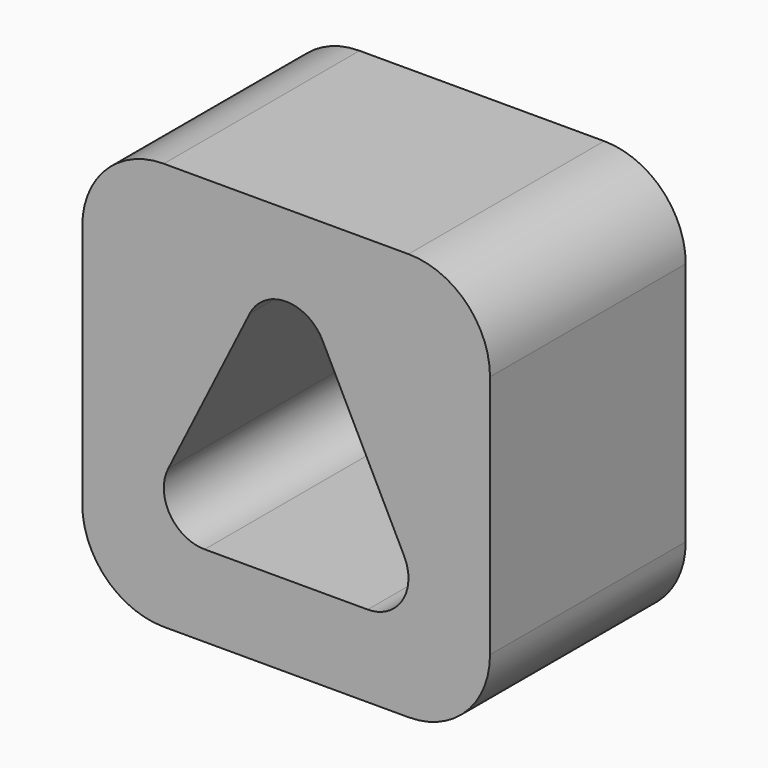
from build123d import *

# Parameters (mm, degrees)
F0_W     = 63.5
F0_H     = 63.5
F1_DEPTH = 38.1
F2_R     = 12.7


with BuildPart() as f1:
    # F0 (on Front) → F1 (new body)
    with BuildSketch(Plane.XZ):
        with Locations((31.75, 31.75)):
            Rectangle(F0_W, F0_H)
        with BuildLine():
            ThreePointArc((19.05, 12.7), (13.648367, 15.711607), (13.370387, 21.889806))
            Line((13.370387, 21.889806), (26.070387, 47.289806))
            ThreePointArc((26.070387, 47.289806), (31.75, 50.8), (37.429613, 47.289806))
            Line((37.429613, 47.289806), (50.129613, 21.889806))
            ThreePointArc((50.129613, 21.889806), (49.851633, 15.711607), (44.45, 12.7))
            Line((44.45, 12.7), (19.05, 12.7))
        make_face(mode=Mode.SUBTRACT)
    extrude(amount=-F1_DEPTH)

    # F2
    f2_edges = [f1.edges().sort_by_distance(p)[0] for p in [
        (63.5, 19.05, 63.5),
        (63.5, 19.05, 0),
        (0, 19.05, 0),
        (0, 19.05, 63.5),
    ]]
    fillet(f2_edges, radius=F2_R)


solid = f1.part
